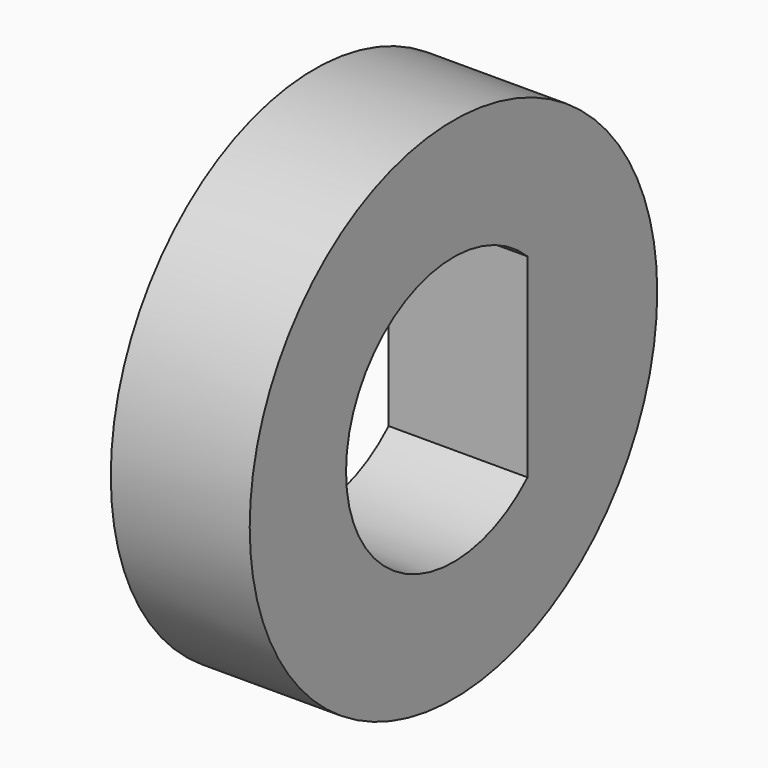
from build123d import *

# Parameters (mm, degrees)
F0_R     = 2.9
F1_DEPTH = 3
F3_DEPTH = 3
F4_R     = 14.864409
F4_R_2   = 5.5
F5_DEPTH = 25.4


with BuildPart() as f1:
    # F0 (on Right) → F1 (new body)
    with BuildSketch(Plane.YZ):
        Polygon((0.84, 10.466346), (0, 12.5), (-0.838096, 10.465561), (-1.993439, 12.338134), (-2.494335, 10.1956), (-3.935098, 11.858594), (-4.085821, 9.663455), (-5.77469, 11.073799), (-5.571336, 8.88291), (-7.46457, 10.004076), (-6.912406, 7.874179), (-8.96097, 8.67713), (-8.074297, 6.663388), (-10.225136, 7.127329), (-9.026918, 5.281896), (-11.224325, 5.39481), (-9.745595, 3.765483), (-11.932659, 3.524446), (-10.211716, 2.153423), (-12.331793, 1.564677), (-10.413209, 0.487468), (-12.41139, -0.433738), (-10.344854, -1.189236), (-12.169387, -2.419043), (-10.008422, -2.833261), (-11.612053, -4.339818), (-9.412626, -4.402029), (-10.753822, -6.146318), (-8.572898, -5.85491), (-9.616923, -7.791753), (-7.510986, -7.154275), (-8.230799, -9.23351), (-6.254392, -8.26647), (-6.631351, -10.434246), (-4.835663, -9.162691), (-4.860004, -11.362863), (-3.291541, -9.819726), (-2.962635, -11.995311), (-1.66202, -10.220558), (-0.988385, -12.315209), (0.010698, -10.354806), (1.011615, -12.314273), (1.683289, -10.218992), (2.985565, -11.992527), (3.312434, -9.816635), (4.882341, -11.358303), (4.85594, -9.158155), (6.652818, -10.428028), (6.27383, -8.260606), (8.251141, -9.225795), (7.529382, -7.147235), (9.635915, -7.782742), (8.590078, -5.846877), (10.771274, -6.136242), (9.428445, -4.39321), (11.627813, -4.32894), (10.022772, -2.823885), (12.183349, -2.407644), (10.357664, -1.179545), (12.423493, -0.422113), (10.42445, 0.497221), (12.342025, 1.576227), (10.221398, 2.162987), (11.941057, 3.53562), (9.753768, 3.77461), (11.230972, 5.405321), (9.033671, 5.29035), (10.230161, 7.136903), (8.079758, 6.670949), (8.964545, 8.685521), (6.916733, 7.880652), (7.466903, 10.011065), (5.57472, 8.888127), (5.776023, 11.079206), (4.088475, 9.667282), (3.935697, 11.862278), (2.496491, 10.197936), (1.99359, 12.34), align=None)
        Circle(F0_R, mode=Mode.SUBTRACT)
    extrude(amount=F1_DEPTH)

    # F2 (on Right) → F3 (join)
    with BuildSketch(Plane.YZ):
        with BuildLine():
            ThreePointArc((2, -2.1), (2.9, 0), (2, 2.1))
            Line((2, 2.1), (2, -2.1))
        make_face()
    extrude(amount=F3_DEPTH)

    # F4 (on Right) → F5 (cut)
    with BuildSketch(Plane.YZ):
        Circle(F4_R)
        Circle(F4_R_2, mode=Mode.SUBTRACT)
    extrude(amount=F5_DEPTH, mode=Mode.SUBTRACT)


solid = f1.part
